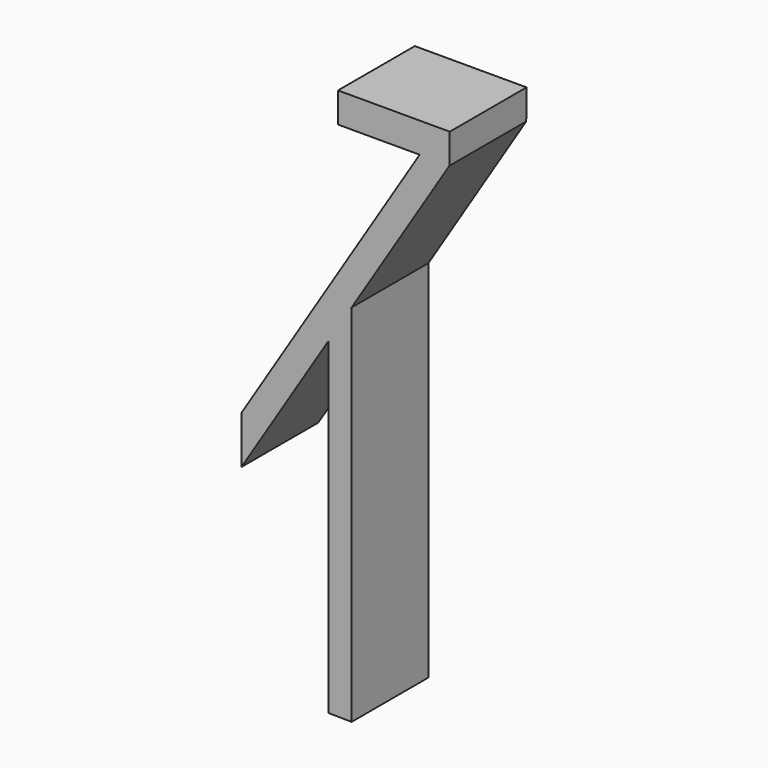
from build123d import *

# Parameters (mm, degrees)
F1_DEPTH = 19.05


with BuildPart() as f1:
    # F0 (on Front) → F1 (new body, symmetric)
    with BuildSketch(Plane.XZ):
        Polygon((27.015501, 121.247835), (38.846832, 121.247835), (38.969941, 133.192345), (-5.387122, 133.192345), (-5.387122, 121.247835), align=None)
        Polygon((-9.170749, 44.403642), (0, 59.079908), (38.846832, 121.247835), (27.015501, 121.247835), (-43.718703, 8.049446), (-43.718703, -10.884642), align=None)
        Polygon((0, -85.755453), (0, 59.079908), (-9.170749, 44.403642), (-9.170749, -85.624769), align=None)
    extrude(amount=F1_DEPTH, both=True)


solid = f1.part
